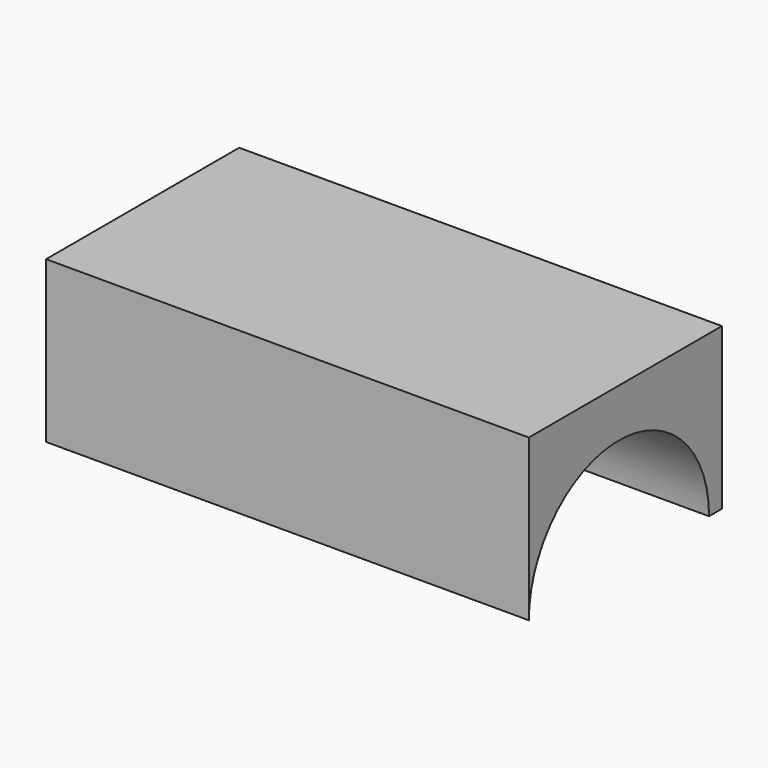
from build123d import *

# Parameters (mm, degrees)
CYLINDER018_R           = 7
CYLINDER018_DEPTH       = 30
CYLINDER018_PITCH_ANGLE = 90
BOX003_W                = 30
BOX003_H                = 15
BOX003_DEPTH            = 10


with BuildPart() as cylinder018:
    # Cylinder018 → Cylinder018 (new body)
    with BuildSketch(Plane.XY):
        Circle(CYLINDER018_R)
    extrude(amount=CYLINDER018_DEPTH)


with BuildPart() as cylinder018_1:
    # Cylinder018 pitch: moved
    add(cylinder018.part.rotate(Axis((0, 0, 0), (0, 1, 0)), CYLINDER018_PITCH_ANGLE))


with BuildPart() as cylinder018_2:
    # Cylinder018 placement: moved
    add(cylinder018_1.part.moved(Location((0, 0, 13))))


with BuildPart() as cut013:
    # Box003 → Box003 (new body)
    with BuildSketch(Plane(origin=(0, -7, 13), x_dir=(1, 0, 0), z_dir=(0, 0, 1))):
        with Locations((15, 7.5)):
            Rectangle(BOX003_W, BOX003_H)
    extrude(amount=BOX003_DEPTH)

    # Cut013: cut Cylinder018
    add(cylinder018_2.part, mode=Mode.SUBTRACT)


solid = cut013.part
